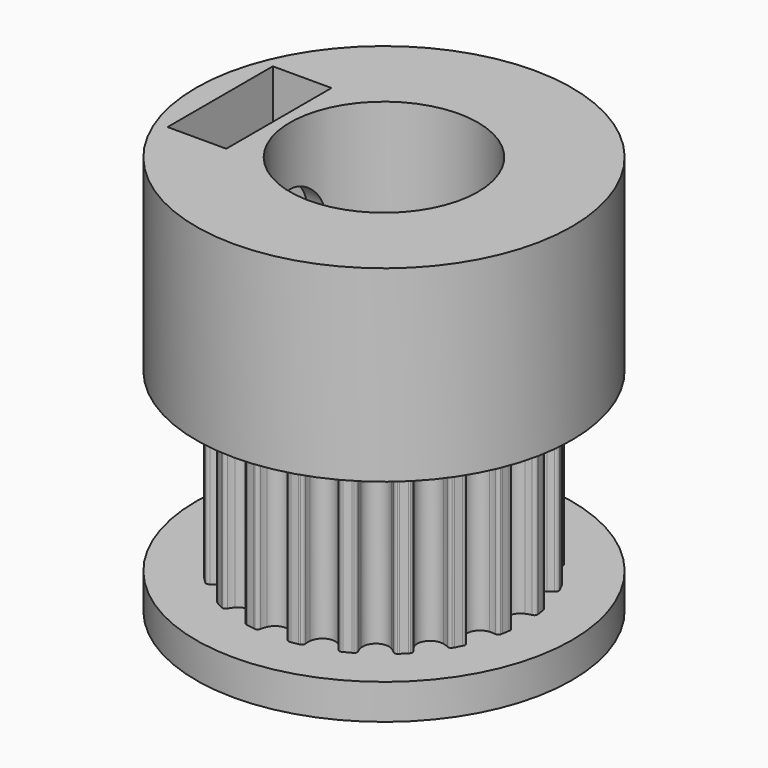
from build123d import *

# Parameters (mm, degrees)
F1_DEPTH  = 7.5
F2_R      = 8
F3_DEPTH  = 8
F4_R      = 8
F5_DEPTH  = 1.5
F6_R      = 4
F7_DEPTH  = 17.001
F8_R      = 1.5
F9_DEPTH  = 8.001
F10_W     = 2.5
F10_H     = 5.6
F11_DEPTH = 7


with BuildPart() as f1:
    # F0 (on Top) → F1 (new body)
    with BuildSketch(Plane.XY):
        with BuildLine():
            ThreePointArc((-0.5137469529, -5.5950260293), (0, -5.25), (0.5137469529, -5.5950260293))
            ThreePointArc((0.5137469529, -5.5950260293), (0.5592692601, -5.7125893356), (0.5896381917, -5.8349459432))
            ThreePointArc((0.5896381917, -5.8349459432), (0.634011817, -5.9169199806), (0.718236871, -5.9568562008))
            ThreePointArc((0.718236871, -5.9568562008), (0.7555100891, -5.952243653), (0.7927537045, -5.9473978818))
            ThreePointArc((0.7927537045, -5.9473978818), (0.9386067902, -5.9261300436), (1.0838934413, -5.9012858775))
            ThreePointArc((1.0838934413, -5.9012858775), (1.1208116501, -5.8943855698), (1.1576859427, -5.8872543055))
            ThreePointArc((1.1576859427, -5.8872543055), (1.2254477584, -5.82324573), (1.2423182132, -5.7315715833))
            ThreePointArc((1.2423182132, -5.7315715833), (1.2333905124, -5.6058190183), (1.2403557397, -5.4799425032))
            ThreePointArc((1.2403557397, -5.4799425032), (1.6223392205, -4.9930467105), (2.2175605143, -5.1624294247))
            ThreePointArc((2.2175605143, -5.1624294247), (2.2971838607, -5.2601716067), (2.3638767022, -5.3671551397))
            ThreePointArc((2.3638767022, -5.3671551397), (2.4314098983, -5.4314048778), (2.5238536555, -5.4433595073))
            ThreePointArc((2.5238536555, -5.4433595073), (2.5578772368, -5.4274546558), (2.5918005942, -5.4113371434))
            ThreePointArc((2.5918005942, -5.4113371434), (2.7239429984, -5.3460391451), (2.8544415451, -5.2775148949))
            ThreePointArc((2.8544415451, -5.2775148949), (2.8874205358, -5.2595439583), (2.9202863902, -5.2413669399))
            ThreePointArc((2.9202863902, -5.2413669399), (2.964951969, -5.1595516144), (2.9526678557, -5.0671510626))
            ThreePointArc((2.9526678557, -5.0671510626), (2.905317428, -4.9503120775), (2.8730437705, -4.828444024))
            ThreePointArc((2.8730437705, -4.828444024), (3.0858725745, -4.2473392205), (3.7043038019, -4.2244982593))
            ThreePointArc((3.7043038019, -4.2244982593), (3.8102340997, -4.2928516312), (3.906722491, -4.373989796))
            ThreePointArc((3.906722491, -4.373989796), (3.9908046381, -4.4142260228), (4.0824180595, -4.3970288591))
            ThreePointArc((4.0824180595, -4.3970288591), (4.1098615388, -4.3713885816), (4.1371439837, -4.3455770225))
            ThreePointArc((4.1371439837, -4.3455770225), (4.2426406871, -4.2426406871), (4.3455770225, -4.1371439837))
            ThreePointArc((4.3455770225, -4.1371439837), (4.3713885816, -4.1098615388), (4.3970288591, -4.0824180595))
            ThreePointArc((4.3970288591, -4.0824180595), (4.4142260228, -3.9908046381), (4.373989796, -3.906722491))
            ThreePointArc((4.373989796, -3.906722491), (4.2928516312, -3.8102340997), (4.2244982593, -3.7043038019))
            ThreePointArc((4.2244982593, -3.7043038019), (4.2473392205, -3.0858725745), (4.828444024, -2.8730437705))
            ThreePointArc((4.828444024, -2.8730437705), (4.9503120775, -2.905317428), (5.0671510626, -2.9526678557))
            ThreePointArc((5.0671510626, -2.9526678557), (5.1595516144, -2.964951969), (5.2413669399, -2.9202863902))
            ThreePointArc((5.2413669399, -2.9202863902), (5.2595439583, -2.8874205358), (5.2775148949, -2.8544415451))
            ThreePointArc((5.2775148949, -2.8544415451), (5.3460391451, -2.7239429984), (5.4113371434, -2.5918005942))
            ThreePointArc((5.4113371434, -2.5918005942), (5.4432427829, -2.4673716464), (5.3671551397, -2.3638767022))
            ThreePointArc((5.3671551397, -2.3638767022), (5.2601716067, -2.2971838607), (5.1624294247, -2.2175605143))
            ThreePointArc((5.1624294247, -2.2175605143), (4.9930467105, -1.6223392205), (5.4799425032, -1.2403557397))
            ThreePointArc((5.4799425032, -1.2403557397), (5.6058190183, -1.2333905124), (5.7315715833, -1.2423182132))
            ThreePointArc((5.7315715833, -1.2423182132), (5.82324573, -1.2254477584), (5.8872543055, -1.1576859427))
            ThreePointArc((5.8872543055, -1.1576859427), (5.8943855698, -1.1208116501), (5.9012858775, -1.0838934413))
            ThreePointArc((5.9012858775, -1.0838934413), (5.9261300436, -0.9386067902), (5.9473978818, -0.7927537045))
            ThreePointArc((5.9473978818, -0.7927537045), (5.952243653, -0.7555100891), (5.9568562008, -0.718236871))
            ThreePointArc((5.9568562008, -0.718236871), (5.9169199806, -0.634011817), (5.8349459432, -0.5896381917))
            ThreePointArc((5.8349459432, -0.5896381917), (5.7125893356, -0.5592692601), (5.5950260293, -0.5137469529))
            ThreePointArc((5.5950260293, -0.5137469529), (5.25, 0), (5.5950260293, 0.5137469529))
            ThreePointArc((5.5950260293, 0.5137469529), (5.7125893356, 0.5592692601), (5.8349459432, 0.5896381917))
            ThreePointArc((5.8349459432, 0.5896381917), (5.9169199806, 0.634011817), (5.9568562008, 0.718236871))
            ThreePointArc((5.9568562008, 0.718236871), (5.952243653, 0.7555100891), (5.9473978818, 0.7927537045))
            ThreePointArc((5.9473978818, 0.7927537045), (5.9261300436, 0.9386067902), (5.9012858775, 1.0838934413))
            ThreePointArc((5.9012858775, 1.0838934413), (5.8943855698, 1.1208116501), (5.8872543055, 1.1576859427))
            ThreePointArc((5.8872543055, 1.1576859427), (5.82324573, 1.2254477584), (5.7315715833, 1.2423182132))
            ThreePointArc((5.7315715833, 1.2423182132), (5.6058190183, 1.2333905124), (5.4799425032, 1.2403557397))
            ThreePointArc((5.4799425032, 1.2403557397), (4.9930467105, 1.6223392205), (5.1624294247, 2.2175605143))
            ThreePointArc((5.1624294247, 2.2175605143), (5.2601716067, 2.2971838607), (5.3671551397, 2.3638767022))
            ThreePointArc((5.3671551397, 2.3638767022), (5.4314048778, 2.4314098983), (5.4433595073, 2.5238536555))
            ThreePointArc((5.4433595073, 2.5238536555), (5.4274546558, 2.5578772368), (5.4113371434, 2.5918005942))
            ThreePointArc((5.4113371434, 2.5918005942), (5.3460391451, 2.7239429984), (5.2775148949, 2.8544415451))
            ThreePointArc((5.2775148949, 2.8544415451), (5.2595439583, 2.8874205358), (5.2413669399, 2.9202863902))
            ThreePointArc((5.2413669399, 2.9202863902), (5.1595516144, 2.964951969), (5.0671510626, 2.9526678557))
            ThreePointArc((5.0671510626, 2.9526678557), (4.9503120775, 2.905317428), (4.828444024, 2.8730437705))
            ThreePointArc((4.828444024, 2.8730437705), (4.2473392205, 3.0858725745), (4.2244982593, 3.7043038019))
            ThreePointArc((4.2244982593, 3.7043038019), (4.2928516312, 3.8102340997), (4.373989796, 3.906722491))
            ThreePointArc((4.373989796, 3.906722491), (4.4142260228, 3.9908046381), (4.3970288591, 4.0824180595))
            ThreePointArc((4.3970288591, 4.0824180595), (4.3713885816, 4.1098615388), (4.3455770225, 4.1371439837))
            ThreePointArc((4.3455770225, 4.1371439837), (4.2426406871, 4.2426406871), (4.1371439837, 4.3455770225))
            ThreePointArc((4.1371439837, 4.3455770225), (4.1098615388, 4.3713885816), (4.0824180595, 4.3970288591))
            ThreePointArc((4.0824180595, 4.3970288591), (3.9908046381, 4.4142260228), (3.906722491, 4.373989796))
            ThreePointArc((3.906722491, 4.373989796), (3.8102340997, 4.2928516312), (3.7043038019, 4.2244982593))
            ThreePointArc((3.7043038019, 4.2244982593), (3.0858725745, 4.2473392205), (2.8730437705, 4.828444024))
            ThreePointArc((2.8730437705, 4.828444024), (2.905317428, 4.9503120775), (2.9526678557, 5.0671510626))
            ThreePointArc((2.9526678557, 5.0671510626), (2.964951969, 5.1595516144), (2.9202863902, 5.2413669399))
            ThreePointArc((2.9202863902, 5.2413669399), (2.8874205358, 5.2595439583), (2.8544415451, 5.2775148949))
            ThreePointArc((2.8544415451, 5.2775148949), (2.7239429984, 5.3460391451), (2.5918005942, 5.4113371434))
            ThreePointArc((2.5918005942, 5.4113371434), (2.5578772368, 5.4274546558), (2.5238536555, 5.4433595073))
            ThreePointArc((2.5238536555, 5.4433595073), (2.4314098983, 5.4314048778), (2.3638767022, 5.3671551397))
            ThreePointArc((2.3638767022, 5.3671551397), (2.2971838607, 5.2601716067), (2.2175605143, 5.1624294247))
            ThreePointArc((2.2175605143, 5.1624294247), (1.6223392205, 4.9930467105), (1.2403557397, 5.4799425032))
            ThreePointArc((1.2403557397, 5.4799425032), (1.2333905124, 5.6058190183), (1.2423182132, 5.7315715833))
            ThreePointArc((1.2423182132, 5.7315715833), (1.2254477584, 5.82324573), (1.1576859427, 5.8872543055))
            ThreePointArc((1.1576859427, 5.8872543055), (1.1208116501, 5.8943855698), (1.0838934413, 5.9012858775))
            ThreePointArc((1.0838934413, 5.9012858775), (0.9386067902, 5.9261300436), (0.7927537045, 5.9473978818))
            ThreePointArc((0.7927537045, 5.9473978818), (0.7555100891, 5.952243653), (0.718236871, 5.9568562008))
            ThreePointArc((0.718236871, 5.9568562008), (0.634011817, 5.9169199806), (0.5896381917, 5.8349459432))
            ThreePointArc((0.5896381917, 5.8349459432), (0.5592692601, 5.7125893356), (0.5137469529, 5.5950260293))
            ThreePointArc((0.5137469529, 5.5950260293), (0, 5.25), (-0.5137469529, 5.5950260293))
            ThreePointArc((-0.5137469529, 5.5950260293), (-0.5592692601, 5.7125893356), (-0.5896381917, 5.8349459432))
            ThreePointArc((-0.5896381917, 5.8349459432), (-0.634011817, 5.9169199806), (-0.718236871, 5.9568562008))
            ThreePointArc((-0.718236871, 5.9568562008), (-0.7555100891, 5.952243653), (-0.7927537045, 5.9473978818))
            ThreePointArc((-0.7927537045, 5.9473978818), (-0.9386067902, 5.9261300436), (-1.0838934413, 5.9012858775))
            ThreePointArc((-1.0838934413, 5.9012858775), (-1.1208116501, 5.8943855698), (-1.1576859427, 5.8872543055))
            ThreePointArc((-1.1576859427, 5.8872543055), (-1.2254477584, 5.82324573), (-1.2423182132, 5.7315715833))
            ThreePointArc((-1.2423182132, 5.7315715833), (-1.2333905124, 5.6058190183), (-1.2403557397, 5.4799425032))
            ThreePointArc((-1.2403557397, 5.4799425032), (-1.6223392205, 4.9930467105), (-2.2175605143, 5.1624294247))
            ThreePointArc((-2.2175605143, 5.1624294247), (-2.2971838607, 5.2601716067), (-2.3638767022, 5.3671551397))
            ThreePointArc((-2.3638767022, 5.3671551397), (-2.4314098983, 5.4314048778), (-2.5238536555, 5.4433595073))
            ThreePointArc((-2.5238536555, 5.4433595073), (-2.5578772368, 5.4274546558), (-2.5918005942, 5.4113371434))
            ThreePointArc((-2.5918005942, 5.4113371434), (-2.7239429984, 5.3460391451), (-2.8544415451, 5.2775148949))
            ThreePointArc((-2.8544415451, 5.2775148949), (-2.8874205358, 5.2595439583), (-2.9202863902, 5.2413669399))
            ThreePointArc((-2.9202863902, 5.2413669399), (-2.964951969, 5.1595516144), (-2.9526678557, 5.0671510626))
            ThreePointArc((-2.9526678557, 5.0671510626), (-2.905317428, 4.9503120775), (-2.8730437705, 4.828444024))
            ThreePointArc((-2.8730437705, 4.828444024), (-3.0858725745, 4.2473392205), (-3.7043038019, 4.2244982593))
            ThreePointArc((-3.7043038019, 4.2244982593), (-3.8102340997, 4.2928516312), (-3.906722491, 4.373989796))
            ThreePointArc((-3.906722491, 4.373989796), (-3.9908046381, 4.4142260228), (-4.0824180595, 4.3970288591))
            ThreePointArc((-4.0824180595, 4.3970288591), (-4.1098615388, 4.3713885816), (-4.1371439837, 4.3455770225))
            ThreePointArc((-4.1371439837, 4.3455770225), (-4.2426406871, 4.2426406871), (-4.3455770225, 4.1371439837))
            ThreePointArc((-4.3455770225, 4.1371439837), (-4.3713885816, 4.1098615388), (-4.3970288591, 4.0824180595))
            ThreePointArc((-4.3970288591, 4.0824180595), (-4.4142260228, 3.9908046381), (-4.373989796, 3.906722491))
            ThreePointArc((-4.373989796, 3.906722491), (-4.2928516312, 3.8102340997), (-4.2244982593, 3.7043038019))
            ThreePointArc((-4.2244982593, 3.7043038019), (-4.2473392205, 3.0858725745), (-4.828444024, 2.8730437705))
            ThreePointArc((-4.828444024, 2.8730437705), (-4.9503120775, 2.905317428), (-5.0671510626, 2.9526678557))
            ThreePointArc((-5.0671510626, 2.9526678557), (-5.1595516144, 2.964951969), (-5.2413669399, 2.9202863902))
            ThreePointArc((-5.2413669399, 2.9202863902), (-5.2595439583, 2.8874205358), (-5.2775148949, 2.8544415451))
            ThreePointArc((-5.2775148949, 2.8544415451), (-5.3460391451, 2.7239429984), (-5.4113371434, 2.5918005942))
            ThreePointArc((-5.4113371434, 2.5918005942), (-5.4274546558, 2.5578772368), (-5.4433595073, 2.5238536555))
            ThreePointArc((-5.4433595073, 2.5238536555), (-5.4314048778, 2.4314098983), (-5.3671551397, 2.3638767022))
            ThreePointArc((-5.3671551397, 2.3638767022), (-5.2601716067, 2.2971838607), (-5.1624294247, 2.2175605143))
            ThreePointArc((-5.1624294247, 2.2175605143), (-4.9930467105, 1.6223392205), (-5.4799425032, 1.2403557397))
            ThreePointArc((-5.4799425032, 1.2403557397), (-5.6058190183, 1.2333905124), (-5.7315715833, 1.2423182132))
            ThreePointArc((-5.7315715833, 1.2423182132), (-5.82324573, 1.2254477584), (-5.8872543055, 1.1576859427))
            ThreePointArc((-5.8872543055, 1.1576859427), (-5.8943855698, 1.1208116501), (-5.9012858775, 1.0838934413))
            ThreePointArc((-5.9012858775, 1.0838934413), (-5.9261300436, 0.9386067902), (-5.9473978818, 0.7927537045))
            ThreePointArc((-5.9473978818, 0.7927537045), (-5.952243653, 0.7555100891), (-5.9568562008, 0.718236871))
            ThreePointArc((-5.9568562008, 0.718236871), (-5.9169199806, 0.634011817), (-5.8349459432, 0.5896381917))
            ThreePointArc((-5.8349459432, 0.5896381917), (-5.7125893356, 0.5592692601), (-5.5950260293, 0.5137469529))
            ThreePointArc((-5.5950260293, 0.5137469529), (-5.25, 0), (-5.5950260293, -0.5137469529))
            ThreePointArc((-5.5950260293, -0.5137469529), (-5.7125893356, -0.5592692601), (-5.8349459432, -0.5896381917))
            ThreePointArc((-5.8349459432, -0.5896381917), (-5.9169199806, -0.634011817), (-5.9568562008, -0.718236871))
            ThreePointArc((-5.9568562008, -0.718236871), (-5.952243653, -0.7555100891), (-5.9473978818, -0.7927537045))
            ThreePointArc((-5.9473978818, -0.7927537045), (-5.9261300436, -0.9386067902), (-5.9012858775, -1.0838934413))
            ThreePointArc((-5.9012858775, -1.0838934413), (-5.8943855698, -1.1208116501), (-5.8872543055, -1.1576859427))
            ThreePointArc((-5.8872543055, -1.1576859427), (-5.82324573, -1.2254477584), (-5.7315715833, -1.2423182132))
            ThreePointArc((-5.7315715833, -1.2423182132), (-5.6058190183, -1.2333905124), (-5.4799425032, -1.2403557397))
            ThreePointArc((-5.4799425032, -1.2403557397), (-4.9930467105, -1.6223392205), (-5.1624294247, -2.2175605143))
            ThreePointArc((-5.1624294247, -2.2175605143), (-5.2601716067, -2.2971838607), (-5.3671551397, -2.3638767022))
            ThreePointArc((-5.3671551397, -2.3638767022), (-5.4314048778, -2.4314098983), (-5.4433595073, -2.5238536555))
            ThreePointArc((-5.4433595073, -2.5238536555), (-5.4274546558, -2.5578772368), (-5.4113371434, -2.5918005942))
            ThreePointArc((-5.4113371434, -2.5918005942), (-5.3460391451, -2.7239429984), (-5.2775148949, -2.8544415451))
            ThreePointArc((-5.2775148949, -2.8544415451), (-5.2595439583, -2.8874205358), (-5.2413669399, -2.9202863902))
            ThreePointArc((-5.2413669399, -2.9202863902), (-5.1595516144, -2.964951969), (-5.0671510626, -2.9526678557))
            ThreePointArc((-5.0671510626, -2.9526678557), (-4.9503120775, -2.905317428), (-4.828444024, -2.8730437705))
            ThreePointArc((-4.828444024, -2.8730437705), (-4.2473392205, -3.0858725745), (-4.2244982593, -3.7043038019))
            ThreePointArc((-4.2244982593, -3.7043038019), (-4.2928516312, -3.8102340997), (-4.373989796, -3.906722491))
            ThreePointArc((-4.373989796, -3.906722491), (-4.4142260228, -3.9908046381), (-4.3970288591, -4.0824180595))
            ThreePointArc((-4.3970288591, -4.0824180595), (-4.3713885816, -4.1098615388), (-4.3455770225, -4.1371439837))
            ThreePointArc((-4.3455770225, -4.1371439837), (-4.2426406871, -4.2426406871), (-4.1371439837, -4.3455770225))
            ThreePointArc((-4.1371439837, -4.3455770225), (-4.1098615388, -4.3713885816), (-4.0824180595, -4.3970288591))
            ThreePointArc((-4.0824180595, -4.3970288591), (-3.9908046381, -4.4142260228), (-3.906722491, -4.373989796))
            ThreePointArc((-3.906722491, -4.373989796), (-3.8102340997, -4.2928516312), (-3.7043038019, -4.2244982593))
            ThreePointArc((-3.7043038019, -4.2244982593), (-3.0858725745, -4.2473392205), (-2.8730437705, -4.828444024))
            ThreePointArc((-2.8730437705, -4.828444024), (-2.905317428, -4.9503120775), (-2.9526678557, -5.0671510626))
            ThreePointArc((-2.9526678557, -5.0671510626), (-2.964951969, -5.1595516144), (-2.9202863902, -5.2413669399))
            ThreePointArc((-2.9202863902, -5.2413669399), (-2.8874205358, -5.2595439583), (-2.8544415451, -5.2775148949))
            ThreePointArc((-2.8544415451, -5.2775148949), (-2.7239429984, -5.3460391451), (-2.5918005942, -5.4113371434))
            ThreePointArc((-2.5918005942, -5.4113371434), (-2.5578772368, -5.4274546558), (-2.5238536555, -5.4433595073))
            ThreePointArc((-2.5238536555, -5.4433595073), (-2.4314098983, -5.4314048778), (-2.3638767022, -5.3671551397))
            ThreePointArc((-2.3638767022, -5.3671551397), (-2.2971838607, -5.2601716067), (-2.2175605143, -5.1624294247))
            ThreePointArc((-2.2175605143, -5.1624294247), (-1.6223392205, -4.9930467105), (-1.2403557397, -5.4799425032))
            ThreePointArc((-1.2403557397, -5.4799425032), (-1.2333905124, -5.6058190183), (-1.2423182132, -5.7315715833))
            ThreePointArc((-1.2423182132, -5.7315715833), (-1.2254477584, -5.82324573), (-1.1576859427, -5.8872543055))
            ThreePointArc((-1.1576859427, -5.8872543055), (-1.1208116501, -5.8943855698), (-1.0838934413, -5.9012858775))
            ThreePointArc((-1.0838934413, -5.9012858775), (-0.9386067902, -5.9261300436), (-0.7927537045, -5.9473978818))
            ThreePointArc((-0.7927537045, -5.9473978818), (-0.7555100891, -5.952243653), (-0.718236871, -5.9568562008))
            ThreePointArc((-0.718236871, -5.9568562008), (-0.634011817, -5.9169199806), (-0.5896381917, -5.8349459432))
            ThreePointArc((-0.5896381917, -5.8349459432), (-0.5592692601, -5.7125893356), (-0.5137469529, -5.5950260293))
        make_face()
    extrude(amount=F1_DEPTH)

    # F2 (on face) → F3 (join)
    with BuildSketch(Plane.XY.offset(7.5)):
        Circle(F2_R)
    extrude(amount=F3_DEPTH)

    # F4 (on face) → F5 (join)
    with BuildSketch(Plane(origin=(0, 0, 0), x_dir=(1, 0, 0), z_dir=(0, 0, -1))):
        Circle(F4_R)
    extrude(amount=F5_DEPTH)

    # F6 (on face) → F7 (cut, through all)
    with BuildSketch(Plane(origin=(0, 0, -1.5), x_dir=(1, 0, 0), z_dir=(0, 0, -1))):
        Circle(F6_R)
    extrude(amount=-F7_DEPTH, mode=Mode.SUBTRACT)

    # F8 (on Right) → F9 (cut, through all)
    with BuildSketch(Plane.YZ):
        with Locations((0, 11.5)):
            Circle(F8_R)
    extrude(amount=-F9_DEPTH, mode=Mode.SUBTRACT)

    # F10 (on face) → F11 (cut)
    with BuildSketch(Plane.XY.offset(15.5)):
        with Locations((-5.7247557864, 0)):
            Rectangle(F10_W, F10_H)
    extrude(amount=-F11_DEPTH, mode=Mode.SUBTRACT)


solid = f1.part
